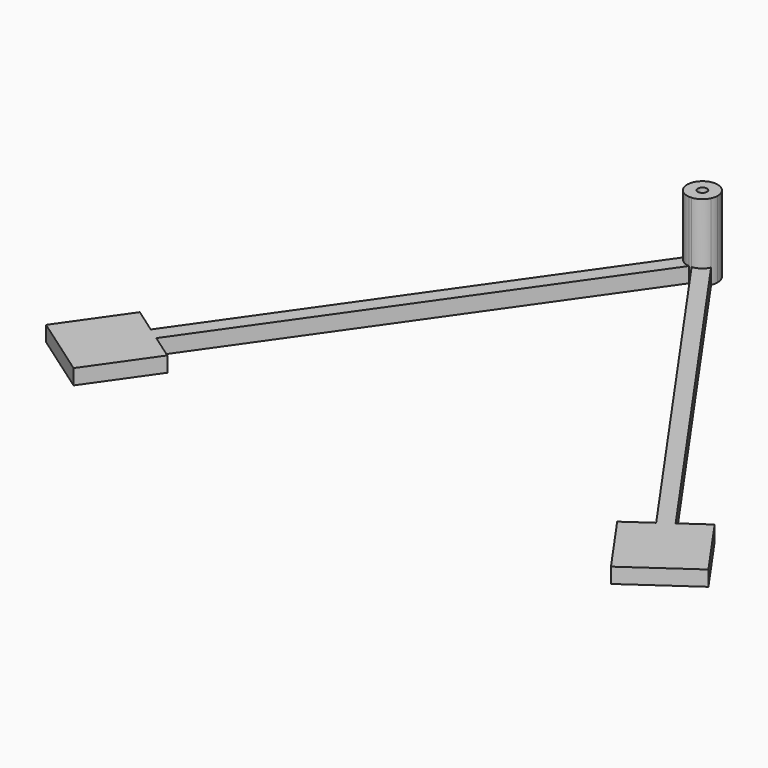
from build123d import *

# Parameters (mm, degrees)
F1_DEPTH = 5
F0_R     = 1.5
F2_DEPTH = 25


with BuildPart() as f1:
    # F0 (on Top) → F1 (new body)
    with BuildSketch(Plane.XY):
        with BuildLine():
            Line((-4.5315389352, -6.4717082978), (-86.0364654527, -122.8728066433))
            Line((-86.0364654527, -122.8728066433), (-81.9407052312, -125.7406888251))
            Line((-81.9407052312, -125.7406888251), (-0.4357787137, -9.3395904795))
            ThreePointArc((-0.4357787137, -9.3395904795), (-2.8678821818, -8.4543772105), (-4.5315389352, -6.4717082978))
        make_face()
        Polygon((-86.0364654527, -122.8728066433), (-94.2279858955, -117.1370422798), (-108.5673968043, -137.6158433871), (-88.0885956971, -151.9552542958), (-73.7491847883, -131.4764531886), (-81.9407052312, -125.7406888251), align=None)
    extrude(amount=F1_DEPTH)



with BuildPart() as f1b:
    # F0 (on Top) → F1, piece 2 (new body)
    with BuildSketch(Plane.XY):
        with BuildLine():
            ThreePointArc((4.5315389352, -6.4717082978), (2.8678821818, -8.4543772105), (0.4357787137, -9.3395904795))
            Line((0.4357787137, -9.3395904795), (81.9407052312, -125.7406888251))
            Line((81.9407052312, -125.7406888251), (86.0364654527, -122.8728066433))
            Line((86.0364654527, -122.8728066433), (4.5315389352, -6.4717082978))
        make_face()
        Polygon((86.0364654527, -122.8728066433), (81.9407052312, -125.7406888251), (73.7491847883, -131.4764531886), (88.0885956971, -151.9552542958), (108.5673968043, -137.6158433871), (94.2279858955, -117.1370422798), align=None)
    extrude(amount=F1_DEPTH)


with BuildPart() as f1_1:
    add(f1.part)

    add(f1b.part)  # F2 merges F1b
    # F0 (on Top) → F2 (join)
    with BuildSketch(Plane.XY):
        with BuildLine():
            ThreePointArc((5, -4.3586169891), (-1.0821980697, 0.5228630465), (-4.5315389352, -6.4717082978))
            ThreePointArc((-4.5315389352, -6.4717082978), (-2.8678821818, -8.4543772105), (-0.4357787137, -9.3395904795))
            ThreePointArc((-0.4357787137, -9.3395904795), (0, -9.3586169891), (0.4357787137, -9.3395904795))
            ThreePointArc((0.4357787137, -9.3395904795), (2.8678821818, -8.4543772105), (4.5315389352, -6.4717082978))
            ThreePointArc((4.5315389352, -6.4717082978), (4.8814800356, -5.4408150587), (5, -4.3586169891))
        make_face()
        with Locations((0, -4.3586169891)):
            Circle(F0_R, mode=Mode.SUBTRACT)
    extrude(amount=F2_DEPTH)


solid = f1_1.part
